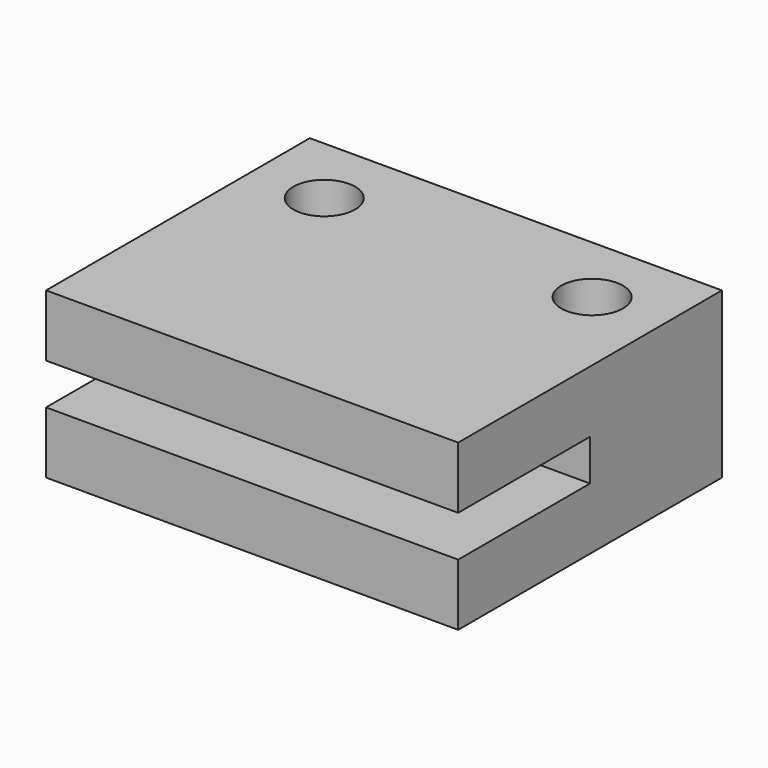
from build123d import *

# Parameters (mm, degrees)
F0_W     = 20
F0_H     = 8
F1_DEPTH = 16
F2_W     = 20
F2_H     = 2
F3_DEPTH = 8
F4_R     = 1.5
F5_DEPTH = 25


with BuildPart() as f1:
    # F0 (on Front) → F1 (new body)
    with BuildSketch(Plane.XZ):
        with Locations((-10, 4)):
            Rectangle(F0_W, F0_H)
    extrude(amount=F1_DEPTH)

    # F2 (on face) → F3 (cut)
    with BuildSketch(Plane.XZ.offset(16)):
        with Locations((-10, 4)):
            Rectangle(F2_W, F2_H)
    extrude(amount=-F3_DEPTH, mode=Mode.SUBTRACT)

    # F4 (on face) → F5 (cut)
    with BuildSketch(Plane.XY.offset(8)):
        with Locations((-16.5, -3.5)):
            Circle(F4_R)
        with Locations((-3.5, -3.5)):
            Circle(F4_R)
        with Locations((-16.5, -3.5)):
            Circle(F4_R)
    extrude(amount=-F5_DEPTH, mode=Mode.SUBTRACT)


solid = f1.part
